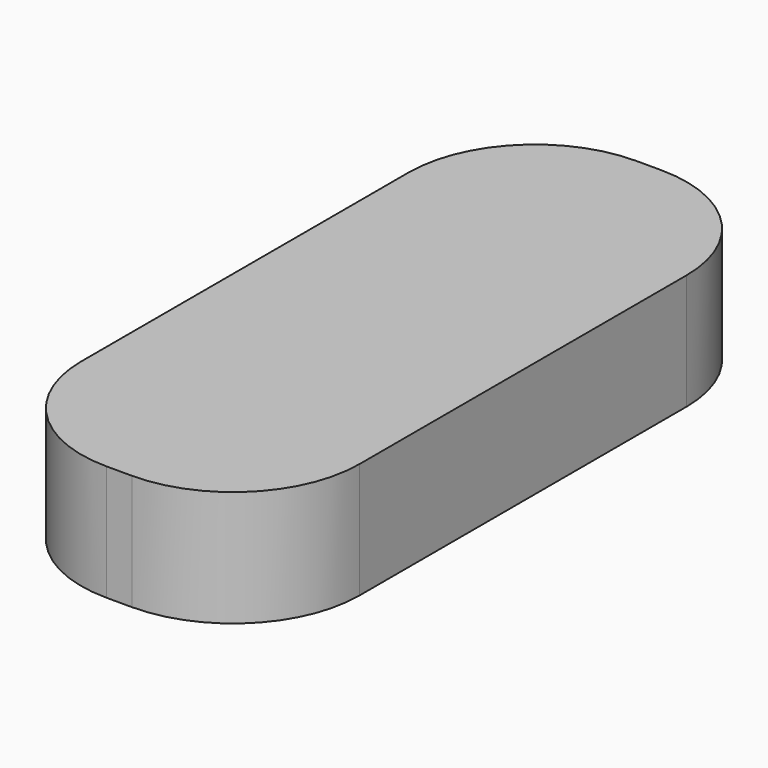
from build123d import *

# Parameters (mm, degrees)
F0_W     = 11.176
F0_H     = 26.5938
F1_DEPTH = 4.6482
F2_R     = 5.08
F4_DEPTH = 3.302


with BuildPart() as f1:
    # F0 (on Top) → F1 (new body)
    with BuildSketch(Plane.XY):
        Rectangle(F0_W, F0_H)
    extrude(amount=F1_DEPTH)

    # F2
    f2_edges = [f1.edges().sort_by_distance(p)[0] for p in [
        (-5.588, 13.2969, 2.3241),
        (5.588, 13.2969, 2.3241),
        (-5.588, -13.2969, 2.3241),
        (5.588, -13.2969, 2.3241),
    ]]
    fillet(f2_edges, radius=F2_R)

    # F3 (on face) → F4 (cut)
    with BuildSketch(Plane.XY):
        with BuildLine():
            Line((-4.938699, 8.085186), (-4.938699, -8.085186))
            ThreePointArc((-4.938699, -8.085186), (-3.599592, -11.318078), (-0.366699, -12.657186))
            Line((-0.366699, -12.657186), (0.366699, -12.657186))
            ThreePointArc((0.366699, -12.657186), (3.599592, -11.318078), (4.938699, -8.085186))
            Line((4.938699, -8.085186), (4.938699, 8.085186))
            ThreePointArc((4.938699, 8.085186), (3.599592, 11.318078), (0.366699, 12.657186))
            Line((0.366699, 12.657186), (-0.366699, 12.657186))
            ThreePointArc((-0.366699, 12.657186), (-3.599592, 11.318078), (-4.938699, 8.085186))
        make_face()
    extrude(amount=F4_DEPTH, mode=Mode.SUBTRACT)


solid = f1.part
